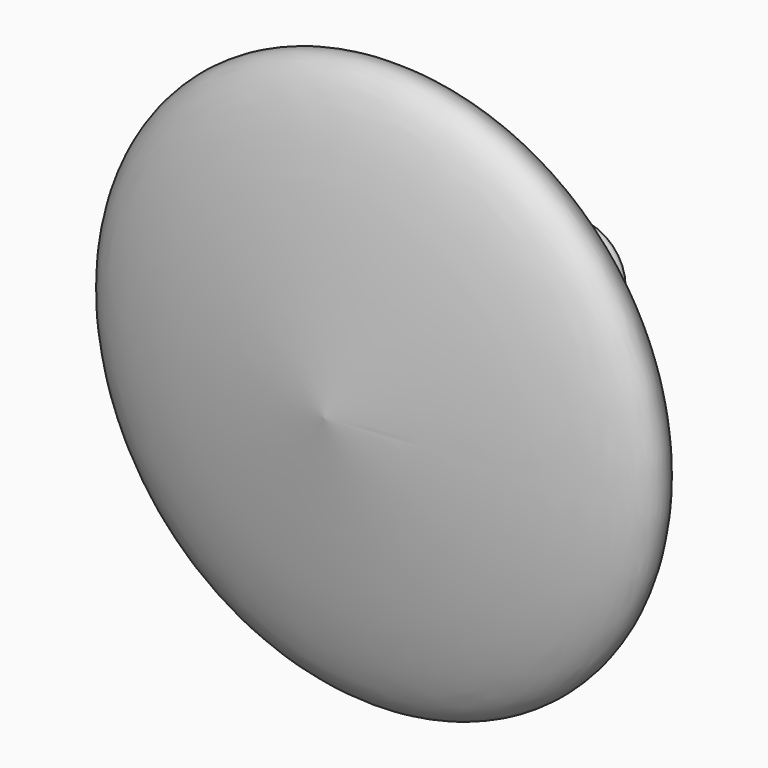
from build123d import *


with BuildPart() as f1:
    # F0 (on Top) → F1 (revolve)
    with BuildSketch(Plane.XY):
        with BuildLine():
            Line((0, 54.9708977342), (0, 0))
            add(Edge.make_bspline(
                [(0, 0), (25.2998516809, 2.7490452546), (76.4419804746, 8.3060749259), (-1.4990934278, 42.2731569207), (10.9876521767, 55.677000632), (3.6424885455, 55.2049761047), (0, 54.9708977342)],
                knots=[0, 0, 0, 0, 0.3542055043, 0.7160051271, 0.8591660957, 1, 1, 1, 1], degree=3))
        make_face()
    revolve(axis=Axis((0, 27.4854488671, 0), (0, 1, 0)))


solid = f1.part
